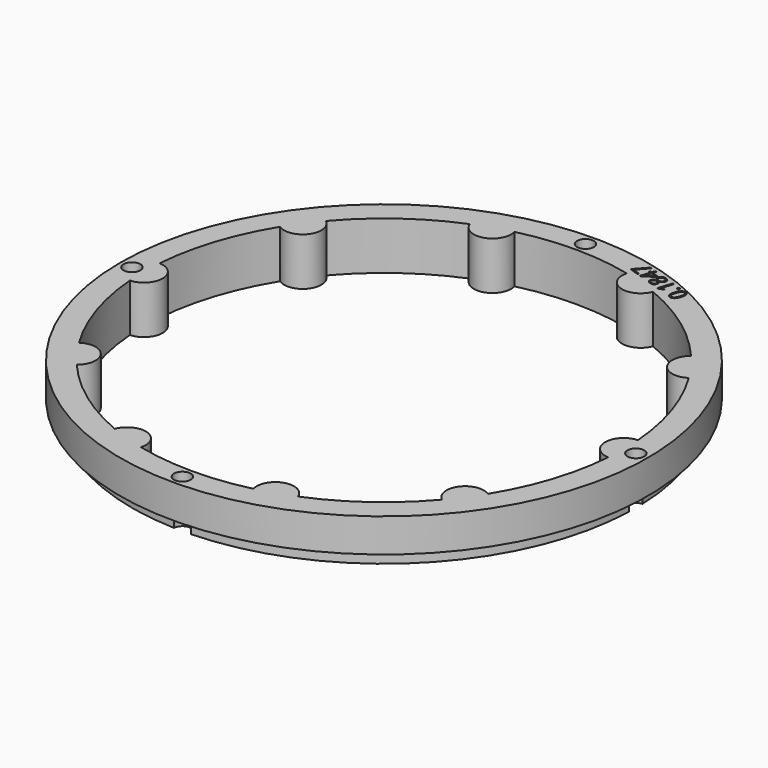
from build123d import *

# Parameters (mm, degrees)
SKETCH070_R             = 55
PAD022_DEPTH            = 10
POLARPATTERN007_COUNT   = 10
SKETCH071_R             = 55
SKETCH071_R_2           = 52.5
POCKET036_DEPTH         = 3
SKETCH072_R             = 1.75
POCKET037_DEPTH         = 321.770146
POCKET037_DEPTH_BACK    = 311.770146
POLARPATTERN008_COUNT   = 4
POCKET044_DEPTH         = 2
BODY004_ROLL_ANGLE      = 90
BODY004_PLACEMENT_ANGLE = -180


with BuildPart() as part:
    # Sketch070 → Pad022 (new body)
    with BuildSketch(Plane.XZ):
        Circle(SKETCH070_R)
        with BuildLine():
            ThreePointArc((49.848421, 3.890365), (-49.999997, -0.01683), (49.851028, -3.856807))
            ThreePointArc((49.848421, 3.890365), (46.123497, 0.015525), (49.851028, -3.856807))
        make_face(mode=Mode.SUBTRACT)
    pad022 = extrude(amount=PAD022_DEPTH)

    # PolarPattern007: Pad022 ×10 about axis
    polarpattern007_axis = Axis((0, 0, 0), (0, -1, 0))
    for i in range(1, POLARPATTERN007_COUNT):
        add(pad022.rotate(polarpattern007_axis, i * 360 / POLARPATTERN007_COUNT))

    # Sketch071 (on DatumPlane) → Pocket036 (cut)
    with BuildSketch(Plane.XZ.offset(10)):
        Circle(SKETCH071_R)
        Circle(SKETCH071_R_2, mode=Mode.SUBTRACT)
    extrude(amount=-POCKET036_DEPTH, mode=Mode.SUBTRACT)

    # Sketch072 (on DatumPlane) → Pocket037 (cut, two sides)
    with BuildSketch(Plane.XZ.offset(10)) as pocket037_sk:
        with Locations((52.5, 0)):
            Circle(SKETCH072_R)
    pocket037 = extrude(amount=-POCKET037_DEPTH, mode=Mode.SUBTRACT) + extrude(pocket037_sk.sketch, amount=POCKET037_DEPTH_BACK, mode=Mode.SUBTRACT)

    # PolarPattern008: Pocket037 ×4 about axis
    polarpattern008_axis = Axis((0, -10, 0), (0, -1, 0))
    for i in range(1, POLARPATTERN008_COUNT):
        add(pocket037.rotate(polarpattern008_axis, i * 360 / POLARPATTERN008_COUNT), mode=Mode.SUBTRACT)

    # Sketch085 (on Face2 of PolarPattern008) → Pocket044 (cut)
    with BuildSketch(Plane(origin=(0, 0, 0), x_dir=(1, 0, 0), z_dir=(0, 1, 0))):
        with BuildLine():
            add(Edge.make_bspline(
                [(-21.9657, -48.2423), (-22.0787, -48.5901), (-22.2202, -48.8466)],
                knots=[0, 0, 0, 1, 1, 1], degree=2))
            add(Edge.make_bspline(
                [(-22.2202, -48.8466), (-22.3617, -49.103), (-22.5364, -49.2559)],
                knots=[0, 0, 0, 1, 1, 1], degree=2))
            add(Edge.make_bspline(
                [(-22.5364, -49.2559), (-22.7111, -49.4086), (-22.9225, -49.449)],
                knots=[0, 0, 0, 1, 1, 1], degree=2))
            add(Edge.make_bspline(
                [(-22.9225, -49.449), (-23.1339, -49.4894), (-23.3854, -49.4077)],
                knots=[0, 0, 0, 1, 1, 1], degree=2))
            add(Edge.make_bspline(
                [(-23.3854, -49.4077), (-23.7032, -49.3044), (-23.8544, -49.063)],
                knots=[0, 0, 0, 1, 1, 1], degree=2))
            add(Edge.make_bspline(
                [(-23.8544, -49.063), (-24.0054, -48.8217), (-24.0009, -48.4592)],
                knots=[0, 0, 0, 1, 1, 1], degree=2))
            add(Edge.make_bspline(
                [(-24.0009, -48.4592), (-23.9962, -48.0967), (-23.8451, -47.6317)],
                knots=[0, 0, 0, 1, 1, 1], degree=2))
            add(Edge.make_bspline(
                [(-23.8451, -47.6317), (-23.6966, -47.1745), (-23.4971, -46.8754)],
                knots=[0, 0, 0, 1, 1, 1], degree=2))
            add(Edge.make_bspline(
                [(-23.4971, -46.8754), (-23.2974, -46.5763), (-23.0333, -46.4667)],
                knots=[0, 0, 0, 1, 1, 1], degree=2))
            add(Edge.make_bspline(
                [(-23.0333, -46.4667), (-22.7692, -46.3569), (-22.43, -46.4671)],
                knots=[0, 0, 0, 1, 1, 1], degree=2))
            add(Edge.make_bspline(
                [(-22.43, -46.4671), (-22.1083, -46.5717), (-21.9565, -46.8144)],
                knots=[0, 0, 0, 1, 1, 1], degree=2))
            add(Edge.make_bspline(
                [(-21.9565, -46.8144), (-21.8047, -47.057), (-21.8103, -47.4191)],
                knots=[0, 0, 0, 1, 1, 1], degree=2))
            add(Edge.make_bspline(
                [(-21.8103, -47.4191), (-21.8159, -47.7813), (-21.9657, -48.2423)],
                knots=[0, 0, 0, 1, 1, 1], degree=2))
        make_face()
        with BuildLine():
            add(Edge.make_bspline(
                [(-23.5195, -47.7375), (-23.6491, -48.1363), (-23.6751, -48.4219)],
                knots=[0, 0, 0, 1, 1, 1], degree=2))
            add(Edge.make_bspline(
                [(-23.6751, -48.4219), (-23.701, -48.7073), (-23.6084, -48.8833)],
                knots=[0, 0, 0, 1, 1, 1], degree=2))
            add(Edge.make_bspline(
                [(-23.6084, -48.8833), (-23.5157, -49.0592), (-23.2954, -49.1308)],
                knots=[0, 0, 0, 1, 1, 1], degree=2))
            add(Edge.make_bspline(
                [(-23.2954, -49.1308), (-23.0751, -49.2024), (-22.8972, -49.1155)],
                knots=[0, 0, 0, 1, 1, 1], degree=2))
            add(Edge.make_bspline(
                [(-22.8972, -49.1155), (-22.719, -49.0285), (-22.5713, -48.7827)],
                knots=[0, 0, 0, 1, 1, 1], degree=2))
            add(Edge.make_bspline(
                [(-22.5713, -48.7827), (-22.4235, -48.5367), (-22.2932, -48.1359)],
                knots=[0, 0, 0, 1, 1, 1], degree=2))
            add(Edge.make_bspline(
                [(-22.2932, -48.1359), (-22.1656, -47.743), (-22.14, -47.4586)],
                knots=[0, 0, 0, 1, 1, 1], degree=2))
            add(Edge.make_bspline(
                [(-22.14, -47.4586), (-22.1143, -47.1741), (-22.2054, -46.9965)],
                knots=[0, 0, 0, 1, 1, 1], degree=2))
            add(Edge.make_bspline(
                [(-22.2054, -46.9965), (-22.2963, -46.8188), (-22.5205, -46.7459)],
                knots=[0, 0, 0, 1, 1, 1], degree=2))
            add(Edge.make_bspline(
                [(-22.5205, -46.7459), (-22.7448, -46.6731), (-22.9228, -46.7634)],
                knots=[0, 0, 0, 1, 1, 1], degree=2))
            add(Edge.make_bspline(
                [(-22.9228, -46.7634), (-23.1008, -46.8535), (-23.2464, -47.0991)],
                knots=[0, 0, 0, 1, 1, 1], degree=2))
            add(Edge.make_bspline(
                [(-23.2464, -47.0991), (-23.3918, -47.3445), (-23.5195, -47.7375)],
                knots=[0, 0, 0, 1, 1, 1], degree=2))
        make_face(mode=Mode.SUBTRACT)
        with BuildLine():
            add(Edge.make_bspline(
                [(-21.8673, -49.6118), (-21.823, -49.4753), (-21.738, -49.4394)],
                knots=[0, 0, 0, 1, 1, 1], degree=2))
            add(Edge.make_bspline(
                [(-21.738, -49.4394), (-21.6531, -49.4034), (-21.5575, -49.4344)],
                knots=[0, 0, 0, 1, 1, 1], degree=2))
            add(Edge.make_bspline(
                [(-21.5575, -49.4344), (-21.4581, -49.4667), (-21.4086, -49.5465)],
                knots=[0, 0, 0, 1, 1, 1], degree=2))
            add(Edge.make_bspline(
                [(-21.4086, -49.5465), (-21.359, -49.6261), (-21.4033, -49.7626)],
                knots=[0, 0, 0, 1, 1, 1], degree=2))
            add(Edge.make_bspline(
                [(-21.4033, -49.7626), (-21.447, -49.8971), (-21.5353, -49.9364)],
                knots=[0, 0, 0, 1, 1, 1], degree=2))
            add(Edge.make_bspline(
                [(-21.5353, -49.9364), (-21.6234, -49.9756), (-21.7229, -49.9432)],
                knots=[0, 0, 0, 1, 1, 1], degree=2))
            add(Edge.make_bspline(
                [(-21.7229, -49.9432), (-21.8184, -49.9122), (-21.8647, -49.8293)],
                knots=[0, 0, 0, 1, 1, 1], degree=2))
            add(Edge.make_bspline(
                [(-21.8647, -49.8293), (-21.911, -49.7463), (-21.8673, -49.6118)],
                knots=[0, 0, 0, 1, 1, 1], degree=2))
        make_face()
        with BuildLine():
            Line((-19.780696, -50.530611), (-20.096531, -50.42799))
            Line((-20.096531, -50.42799), (-19.4395, -48.4059))
            add(Edge.make_bspline(
                [(-19.4395, -48.4059), (-19.4021, -48.2907), (-19.3742, -48.2081)],
                knots=[0, 0, 0, 1, 1, 1], degree=2))
            add(Edge.make_bspline(
                [(-19.3742, -48.2081), (-19.3463, -48.1255), (-19.3209, -48.0572)],
                knots=[0, 0, 0, 1, 1, 1], degree=2))
            add(Edge.make_bspline(
                [(-19.3209, -48.0572), (-19.2954, -47.9888), (-19.2661, -47.9185)],
                knots=[0, 0, 0, 1, 1, 1], degree=2))
            add(Edge.make_bspline(
                [(-19.2661, -47.9185), (-19.3468, -47.9612), (-19.4137, -47.9881)],
                knots=[0, 0, 0, 1, 1, 1], degree=2))
            add(Edge.make_bspline(
                [(-19.4137, -47.9881), (-19.4806, -48.0149), (-19.579478, -48.053888)],
                knots=[0, 0, 0, 1, 1, 1], degree=2))
            Line((-19.579478, -48.053888), (-19.989986, -48.209475))
            Line((-19.989986, -48.209475), (-20.08802, -47.93406))
            Line((-20.08802, -47.93406), (-19.122689, -47.590024))
            Line((-19.122689, -47.590024), (-18.853645, -47.677442))
            Line((-18.853645, -47.677442), (-19.780696, -50.530611))
        make_face()
        with BuildLine():
            add(Edge.make_bspline(
                [(-16.8234, -48.2888), (-16.5758, -48.3693), (-16.4102, -48.5096)],
                knots=[0, 0, 0, 1, 1, 1], degree=2))
            add(Edge.make_bspline(
                [(-16.4102, -48.5096), (-16.2446, -48.6499), (-16.1857, -48.8367)],
                knots=[0, 0, 0, 1, 1, 1], degree=2))
            add(Edge.make_bspline(
                [(-16.1857, -48.8367), (-16.1267, -49.0235), (-16.1985, -49.2445)],
                knots=[0, 0, 0, 1, 1, 1], degree=2))
            add(Edge.make_bspline(
                [(-16.1985, -49.2445), (-16.2551, -49.4187), (-16.3725, -49.5244)],
                knots=[0, 0, 0, 1, 1, 1], degree=2))
            add(Edge.make_bspline(
                [(-16.3725, -49.5244), (-16.4898, -49.6301), (-16.648, -49.6858)],
                knots=[0, 0, 0, 1, 1, 1], degree=2))
            add(Edge.make_bspline(
                [(-16.648, -49.6858), (-16.8061, -49.7414), (-16.985, -49.7677)],
                knots=[0, 0, 0, 1, 1, 1], degree=2))
            add(Edge.make_bspline(
                [(-16.985, -49.7677), (-16.829, -49.9113), (-16.7162, -50.0648)],
                knots=[0, 0, 0, 1, 1, 1], degree=2))
            add(Edge.make_bspline(
                [(-16.7162, -50.0648), (-16.6033, -50.2183), (-16.5639, -50.389)],
                knots=[0, 0, 0, 1, 1, 1], degree=2))
            add(Edge.make_bspline(
                [(-16.5639, -50.389), (-16.5246, -50.5597), (-16.5881, -50.7554)],
                knots=[0, 0, 0, 1, 1, 1], degree=2))
            add(Edge.make_bspline(
                [(-16.5881, -50.7554), (-16.6663, -50.9959), (-16.8393, -51.1334)],
                knots=[0, 0, 0, 1, 1, 1], degree=2))
            add(Edge.make_bspline(
                [(-16.8393, -51.1334), (-17.0121, -51.2708), (-17.2512, -51.297)],
                knots=[0, 0, 0, 1, 1, 1], degree=2))
            add(Edge.make_bspline(
                [(-17.2512, -51.297), (-17.4903, -51.3231), (-17.7711, -51.2319)],
                knots=[0, 0, 0, 1, 1, 1], degree=2))
            add(Edge.make_bspline(
                [(-17.7711, -51.2319), (-18.0733, -51.1337), (-18.2553, -50.9739)],
                knots=[0, 0, 0, 1, 1, 1], degree=2))
            add(Edge.make_bspline(
                [(-18.2553, -50.9739), (-18.4372, -50.8142), (-18.4918, -50.6073)],
                knots=[0, 0, 0, 1, 1, 1], degree=2))
            add(Edge.make_bspline(
                [(-18.4918, -50.6073), (-18.5463, -50.4003), (-18.4681, -50.1597)],
                knots=[0, 0, 0, 1, 1, 1], degree=2))
            add(Edge.make_bspline(
                [(-18.4681, -50.1597), (-18.4039, -49.962), (-18.2727, -49.8436)],
                knots=[0, 0, 0, 1, 1, 1], degree=2))
            add(Edge.make_bspline(
                [(-18.2727, -49.8436), (-18.1415, -49.7251), (-17.9688, -49.6644)],
                knots=[0, 0, 0, 1, 1, 1], degree=2))
            add(Edge.make_bspline(
                [(-17.9688, -49.6644), (-17.796, -49.6037), (-17.6087, -49.5846)],
                knots=[0, 0, 0, 1, 1, 1], degree=2))
            add(Edge.make_bspline(
                [(-17.6087, -49.5846), (-17.7256, -49.4601), (-17.8112, -49.3219)],
                knots=[0, 0, 0, 1, 1, 1], degree=2))
            add(Edge.make_bspline(
                [(-17.8112, -49.3219), (-17.8967, -49.1838), (-17.9224, -49.0273)],
                knots=[0, 0, 0, 1, 1, 1], degree=2))
            add(Edge.make_bspline(
                [(-17.9224, -49.0273), (-17.948, -48.8708), (-17.8901, -48.6927)],
                knots=[0, 0, 0, 1, 1, 1], degree=2))
            add(Edge.make_bspline(
                [(-17.8901, -48.6927), (-17.8196, -48.4757), (-17.6602, -48.3598)],
                knots=[0, 0, 0, 1, 1, 1], degree=2))
            add(Edge.make_bspline(
                [(-17.6602, -48.3598), (-17.5007, -48.2439), (-17.2831, -48.2271)],
                knots=[0, 0, 0, 1, 1, 1], degree=2))
            add(Edge.make_bspline(
                [(-17.2831, -48.2271), (-17.0652, -48.2103), (-16.8234, -48.2888)],
                knots=[0, 0, 0, 1, 1, 1], degree=2))
        make_face()
        with BuildLine():
            add(Edge.make_bspline(
                [(-18.1511, -50.2653), (-18.2224, -50.4847), (-18.1145, -50.6767)],
                knots=[0, 0, 0, 1, 1, 1], degree=2))
            add(Edge.make_bspline(
                [(-18.1145, -50.6767), (-18.0066, -50.8687), (-17.6946, -50.97)],
                knots=[0, 0, 0, 1, 1, 1], degree=2))
            add(Edge.make_bspline(
                [(-17.6946, -50.97), (-17.3983, -51.0663), (-17.1904, -50.977)],
                knots=[0, 0, 0, 1, 1, 1], degree=2))
            add(Edge.make_bspline(
                [(-17.1904, -50.977), (-16.9824, -50.8876), (-16.9073, -50.6565)],
                knots=[0, 0, 0, 1, 1, 1], degree=2))
            add(Edge.make_bspline(
                [(-16.9073, -50.6565), (-16.8609, -50.5135), (-16.8997, -50.3808)],
                knots=[0, 0, 0, 1, 1, 1], degree=2))
            add(Edge.make_bspline(
                [(-16.8997, -50.3808), (-16.9384, -50.2481), (-17.0469, -50.1176)],
                knots=[0, 0, 0, 1, 1, 1], degree=2))
            add(Edge.make_bspline(
                [(-17.0469, -50.1176), (-17.1554, -49.9871), (-17.317706, -49.856434)],
                knots=[0, 0, 0, 1, 1, 1], degree=2))
            Line((-17.317706, -49.856434), (-17.3796, -49.8082))
            add(Edge.make_bspline(
                [(-17.3796, -49.8082), (-17.5831, -49.8242), (-17.7386, -49.8745)],
                knots=[0, 0, 0, 1, 1, 1], degree=2))
            add(Edge.make_bspline(
                [(-17.7386, -49.8745), (-17.8938, -49.9247), (-17.9977, -50.0187)],
                knots=[0, 0, 0, 1, 1, 1], degree=2))
            add(Edge.make_bspline(
                [(-17.9977, -50.0187), (-18.1015, -50.1126), (-18.1511, -50.2653)],
                knots=[0, 0, 0, 1, 1, 1], degree=2))
        make_face(mode=Mode.SUBTRACT)
        with BuildLine():
            add(Edge.make_bspline(
                [(-16.9135, -48.5527), (-17.1435, -48.4779), (-17.3257, -48.5412)],
                knots=[0, 0, 0, 1, 1, 1], degree=2))
            add(Edge.make_bspline(
                [(-17.3257, -48.5412), (-17.5079, -48.6043), (-17.5753, -48.8118)],
                knots=[0, 0, 0, 1, 1, 1], degree=2))
            add(Edge.make_bspline(
                [(-17.5753, -48.8118), (-17.6237, -48.9607), (-17.586, -49.0866)],
                knots=[0, 0, 0, 1, 1, 1], degree=2))
            add(Edge.make_bspline(
                [(-17.586, -49.0866), (-17.5482, -49.2125), (-17.4492, -49.3259)],
                knots=[0, 0, 0, 1, 1, 1], degree=2))
            add(Edge.make_bspline(
                [(-17.4492, -49.3259), (-17.3503, -49.4392), (-17.2185, -49.5513)],
                knots=[0, 0, 0, 1, 1, 1], degree=2))
            add(Edge.make_bspline(
                [(-17.2185, -49.5513), (-17.05, -49.5368), (-16.9105, -49.4987)],
                knots=[0, 0, 0, 1, 1, 1], degree=2))
            add(Edge.make_bspline(
                [(-16.9105, -49.4987), (-16.771, -49.4607), (-16.671, -49.3786)],
                knots=[0, 0, 0, 1, 1, 1], degree=2))
            add(Edge.make_bspline(
                [(-16.671, -49.3786), (-16.571, -49.2962), (-16.5239, -49.1513)],
                knots=[0, 0, 0, 1, 1, 1], degree=2))
            add(Edge.make_bspline(
                [(-16.5239, -49.1513), (-16.4564, -48.9438), (-16.5661, -48.7868)],
                knots=[0, 0, 0, 1, 1, 1], degree=2))
            add(Edge.make_bspline(
                [(-16.5661, -48.7868), (-16.6756, -48.63), (-16.9135, -48.5527)],
                knots=[0, 0, 0, 1, 1, 1], degree=2))
        make_face(mode=Mode.SUBTRACT)
        Polygon((-14.203577, -51.616206), (-14.630539, -51.477478), (-14.844058, -52.134622), (-15.159892, -52.032001), (-14.946373, -51.374857), (-16.324738, -50.926999), (-16.236053, -50.654056), (-14.254287, -49.171864), (-13.917007, -49.281453), (-14.535519, -51.185039), (-14.108558, -51.323767), align=None)
        with BuildLine():
            Line((-14.851354, -51.082418), (-14.5503, -50.1558))
            add(Edge.make_bspline(
                [(-14.5503, -50.1558), (-14.5157, -50.0493), (-14.4857, -49.9636)],
                knots=[0, 0, 0, 1, 1, 1], degree=2))
            add(Edge.make_bspline(
                [(-14.4857, -49.9636), (-14.4557, -49.8779), (-14.4275, -49.8046)],
                knots=[0, 0, 0, 1, 1, 1], degree=2))
            add(Edge.make_bspline(
                [(-14.4275, -49.8046), (-14.3994, -49.7312), (-14.3745, -49.6643)],
                knots=[0, 0, 0, 1, 1, 1], degree=2))
            add(Edge.make_bspline(
                [(-14.3745, -49.6643), (-14.3495, -49.5975), (-14.326102, -49.532195)],
                knots=[0, 0, 0, 1, 1, 1], degree=2))
            Line((-14.326102, -49.532195), (-14.3417, -49.5271))
            add(Edge.make_bspline(
                [(-14.3417, -49.5271), (-14.404, -49.5927), (-14.4798, -49.6634)],
                knots=[0, 0, 0, 1, 1, 1], degree=2))
            add(Edge.make_bspline(
                [(-14.4798, -49.6634), (-14.5555, -49.7341), (-14.626307, -49.786129)],
                knots=[0, 0, 0, 1, 1, 1], degree=2))
            Line((-14.626307, -49.786129), (-15.908035, -50.739081))
            Line((-15.908035, -50.739081), (-14.851354, -51.082418))
        make_face(mode=Mode.SUBTRACT)
        Polygon((-13.779448, -52.480535), (-11.778925, -50.303781), (-13.332754, -49.798912), (-13.236467, -49.502573), (-11.335611, -50.120199), (-11.416694, -50.369747), (-13.424621, -52.595825), align=None)
    extrude(amount=-POCKET044_DEPTH, mode=Mode.SUBTRACT)


with BuildPart() as part_1:
    # Body004 roll: moved
    add(part.part.rotate(Axis((0, 0, 0), (1, 0, 0)), BODY004_ROLL_ANGLE))


with BuildPart() as part_2:
    # Body004 placement: moved
    add(part_1.part.moved(Location((-1.52, 0, 48))).rotate(Axis((-1.52, 0, 48), (0, 0, 1)), BODY004_PLACEMENT_ANGLE))


solid = part_2.part
